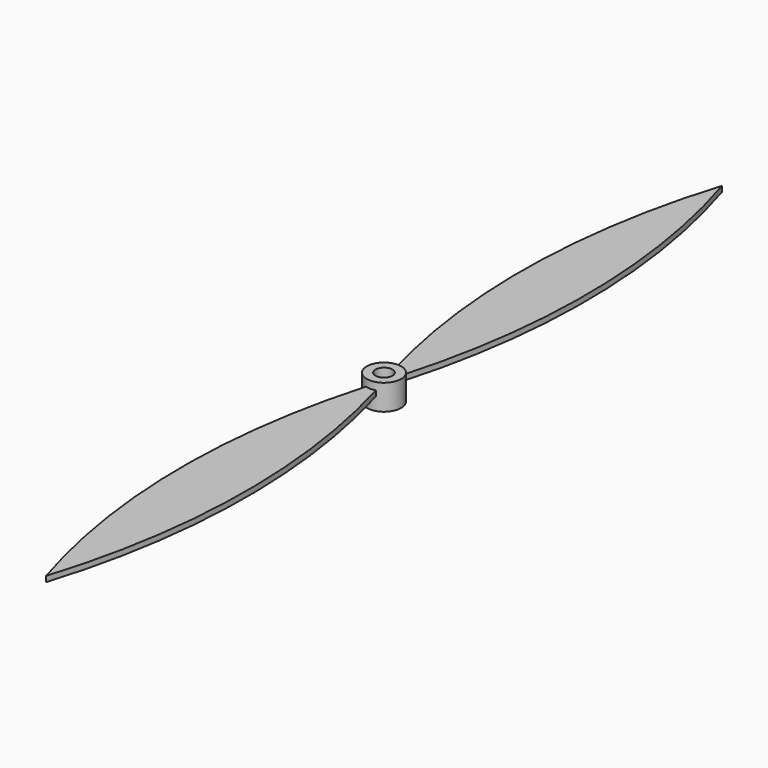
from build123d import *

# Parameters (mm, degrees)
F1_DEPTH = 2
F2_R     = 6.25
F2_R_2   = 3.075
F3_DEPTH = 4.64


with BuildPart() as f1:
    # F0 (on Top) → F1 (new body)
    with BuildSketch(Plane.XY):
        with BuildLine():
            ThreePointArc((-1.7971679387, 5.9860410456), (0, 6.25), (1.7971679387, 5.9860410456))
            ThreePointArc((1.7971679387, 5.9860410456), (11.7316367743, 79.875), (0, 153.5))
            ThreePointArc((0, 153.5), (-11.7316367743, 79.875), (-1.7971679387, 5.9860410456))
        make_face()
    extrude(amount=F1_DEPTH)


with BuildPart() as f1b:
    # F0 (on Top) → F1, piece 2 (new body)
    with BuildSketch(Plane.XY):
        with BuildLine():
            ThreePointArc((0, -153.5), (11.7316367743, -79.875), (1.7971679387, -5.9860410456))
            ThreePointArc((1.7971679387, -5.9860410456), (0, -6.25), (-1.7971679387, -5.9860410456))
            ThreePointArc((-1.7971679387, -5.9860410456), (-11.7316367743, -79.875), (0, -153.5))
        make_face()
    extrude(amount=F1_DEPTH)


with BuildPart() as f3:
    # F2 (on Top) → F3 (new body, symmetric)
    with BuildSketch(Plane.XY):
        Circle(F2_R)
        Circle(F2_R_2, mode=Mode.SUBTRACT)
    extrude(amount=F3_DEPTH, both=True)


solid = Compound([f1.part, f1b.part, f3.part])
